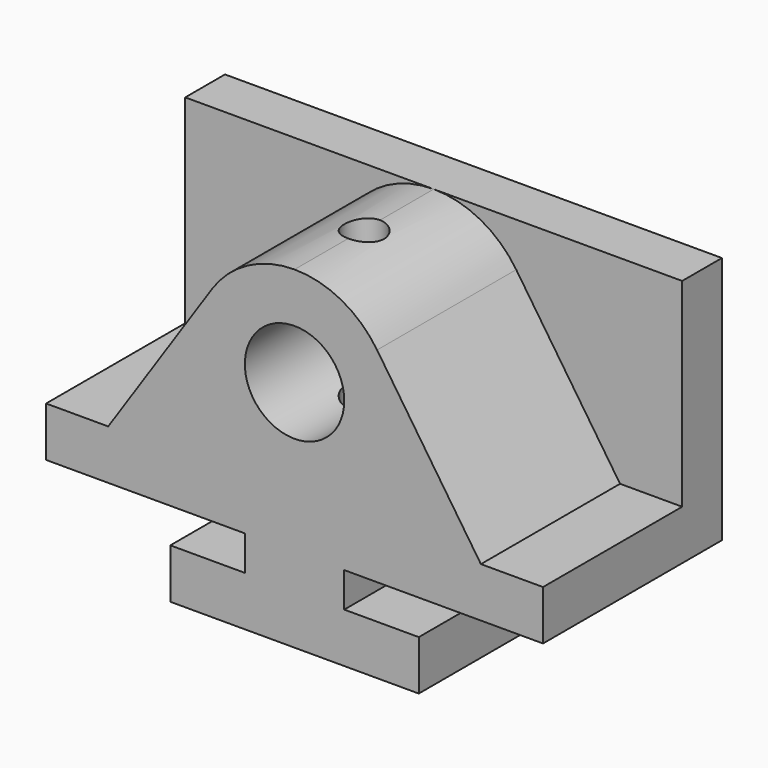
from build123d import *

# Parameters (mm, degrees)
F0_R     = 12.7
F1_DEPTH = 12.7
F2_DEPTH = 44.45
F3_R     = 5.08
F4_DEPTH = 199.39


with BuildPart() as f1:
    # F0 (on Front) → F1 (new body)
    with BuildSketch(Plane.XZ):
        with BuildLine():
            Line((-31.75, 85.09), (-31.75, 34.29))
            Line((-31.75, 34.29), (-15.875, 34.29))
            Line((-15.875, 34.29), (10.656574, 73.840173))
            ThreePointArc((10.656574, 73.840173), (19.797059, 82.101765), (31.75, 85.09))
            Line((31.75, 85.09), (-31.75, 85.09))
        make_face()
        with BuildLine():
            Line((79.375, 34.29), (95.25, 34.29))
            Line((95.25, 34.29), (95.25, 85.09))
            Line((95.25, 85.09), (31.75, 85.09))
            ThreePointArc((31.75, 85.09), (43.702941, 82.101765), (52.843426, 73.840173))
            Line((52.843426, 73.840173), (79.375, 34.29))
        make_face()
        with BuildLine():
            Line((0, 12.7), (0, 0))
            Line((0, 0), (63.5, 0))
            Line((63.5, 0), (63.5, 12.7))
            Line((63.5, 12.7), (44.45, 12.7))
            Line((44.45, 12.7), (44.45, 21.59))
            Line((44.45, 21.59), (95.25, 21.59))
            Line((95.25, 21.59), (95.25, 34.29))
            Line((95.25, 34.29), (79.375, 34.29))
            Line((79.375, 34.29), (52.843426, 73.840173))
            ThreePointArc((52.843426, 73.840173), (43.702941, 82.101765), (31.75, 85.09))
            ThreePointArc((31.75, 85.09), (19.797059, 82.101765), (10.656574, 73.840173))
            Line((10.656574, 73.840173), (-15.875, 34.29))
            Line((-15.875, 34.29), (-31.75, 34.29))
            Line((-31.75, 34.29), (-31.75, 21.59))
            Line((-31.75, 21.59), (19.05, 21.59))
            Line((19.05, 21.59), (19.05, 12.7))
            Line((19.05, 12.7), (0, 12.7))
        make_face()
        with Locations((31.75, 59.69)):
            Circle(F0_R, mode=Mode.SUBTRACT)
    extrude(amount=-F1_DEPTH)

    # F0 (on Front) → F2 (join)
    with BuildSketch(Plane.XZ):
        with BuildLine():
            Line((0, 12.7), (0, 0))
            Line((0, 0), (63.5, 0))
            Line((63.5, 0), (63.5, 12.7))
            Line((63.5, 12.7), (44.45, 12.7))
            Line((44.45, 12.7), (44.45, 21.59))
            Line((44.45, 21.59), (95.25, 21.59))
            Line((95.25, 21.59), (95.25, 34.29))
            Line((95.25, 34.29), (79.375, 34.29))
            Line((79.375, 34.29), (52.843426, 73.840173))
            ThreePointArc((52.843426, 73.840173), (43.702941, 82.101765), (31.75, 85.09))
            ThreePointArc((31.75, 85.09), (19.797059, 82.101765), (10.656574, 73.840173))
            Line((10.656574, 73.840173), (-15.875, 34.29))
            Line((-15.875, 34.29), (-31.75, 34.29))
            Line((-31.75, 34.29), (-31.75, 21.59))
            Line((-31.75, 21.59), (19.05, 21.59))
            Line((19.05, 21.59), (19.05, 12.7))
            Line((19.05, 12.7), (0, 12.7))
        make_face()
        with Locations((31.75, 59.69)):
            Circle(F0_R, mode=Mode.SUBTRACT)
    extrude(amount=F2_DEPTH)

    # F3 (on Top) → F4 (cut)
    with BuildSketch(Plane.XY):
        with Locations((31.75, -22.225)):
            Circle(F3_R)
    extrude(amount=F4_DEPTH, mode=Mode.SUBTRACT)


solid = f1.part
